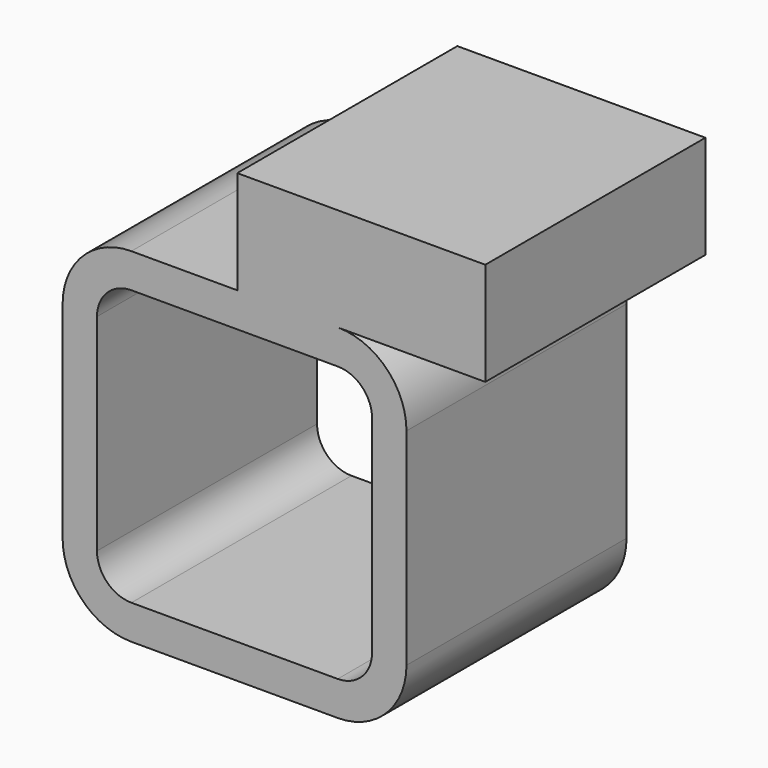
from build123d import *

# Parameters (mm, degrees)
F2_DEPTH = 50.8
F3_W     = 45.810133
F3_H     = 19.05
F4_DEPTH = 50.8


with BuildPart() as f2:
    # F0 (on Front) → F2 (new body)
    with BuildSketch(Plane.XZ):
        with BuildLine():
            ThreePointArc((31.75, 19.05), (28.030256, 28.030256), (19.05, 31.75))
            Line((19.05, 31.75), (-19.05, 31.75))
            ThreePointArc((-19.05, 31.75), (-28.030256, 28.030256), (-31.75, 19.05))
            Line((-31.75, 19.05), (-31.75, -19.05))
            ThreePointArc((-31.75, -19.05), (-28.030256, -28.030256), (-19.05, -31.75))
            Line((-19.05, -31.75), (19.05, -31.75))
            ThreePointArc((19.05, -31.75), (28.030256, -28.030256), (31.75, -19.05))
            Line((31.75, -19.05), (31.75, 19.05))
        make_face()
        with BuildLine():
            ThreePointArc((19.05, 25.4), (23.540128, 23.540128), (25.4, 19.05))
            Line((25.4, 19.05), (25.4, -19.05))
            ThreePointArc((25.4, -19.05), (23.540128, -23.540128), (19.05, -25.4))
            Line((19.05, -25.4), (-19.05, -25.4))
            ThreePointArc((-19.05, -25.4), (-23.540128, -23.540128), (-25.4, -19.05))
            Line((-25.4, -19.05), (-25.4, 19.05))
            ThreePointArc((-25.4, 19.05), (-23.540128, 23.540128), (-19.05, 25.4))
            Line((-19.05, 25.4), (19.05, 25.4))
        make_face(mode=Mode.SUBTRACT)
    extrude(amount=F2_DEPTH)

    # F3 (on Front) → F4 (join)
    with BuildSketch(Plane.XZ):
        with Locations((23.405067, 41.275)):
            Rectangle(F3_W, F3_H)
    extrude(amount=F4_DEPTH)


solid = f2.part
